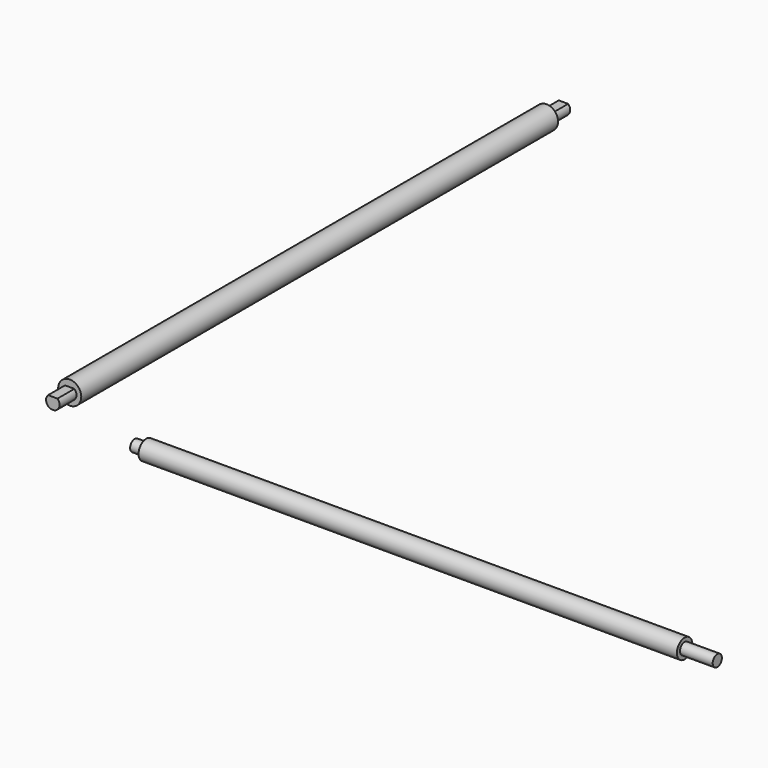
from build123d import *

# Parameters (mm, degrees)
F0_R     = 5
F1_DEPTH = 140
F2_R     = 3
F3_DEPTH = 17
F4_R     = 3
F5_DEPTH = 6
F7_DEPTH = 166
F6_R     = 6
F8_DEPTH = 155


with BuildPart() as f1:
    # F0 (on Right) → F1 (new body, symmetric)
    with BuildSketch(Plane.YZ):
        Circle(F0_R)
    extrude(amount=F1_DEPTH, both=True)

    # F2 (on face) → F3 (join)
    with BuildSketch(Plane.YZ.offset(140)):
        Circle(F2_R)
    extrude(amount=F3_DEPTH)

    # F4 (on face) → F5 (join)
    with BuildSketch(Plane(origin=(-140, 0, 0), x_dir=(0, -1, 0), z_dir=(-1, 0, 0))):
        Circle(F4_R)
    extrude(amount=F5_DEPTH)


with BuildPart() as f7:
    # F6 (on Front) → F7 (new body, symmetric)
    with BuildSketch(Plane.XZ):
        with BuildLine():
            Line((-53.35521285, 119.0169885251), (-58.2541923356, 119.0169885251))
            ThreePointArc((-58.2541923356, 119.0169885251), (-55.8047025928, 113.0169885251), (-53.35521285, 119.0169885251))
        make_face()
    extrude(amount=F7_DEPTH, both=True)

    # F6 (on Front) → F8 (join, symmetric)
    with BuildSketch(Plane.XZ):
        with Locations((-55.8047025928, 116.5169885251)):
            Circle(F6_R)
        with BuildLine():
            ThreePointArc((-53.35521285, 119.0169885251), (-55.8047025928, 113.0169885251), (-58.2541923356, 119.0169885251))
            Line((-58.2541923356, 119.0169885251), (-53.35521285, 119.0169885251))
        make_face(mode=Mode.SUBTRACT)
    extrude(amount=F8_DEPTH, both=True)


solid = Compound([f1.part, f7.part])
